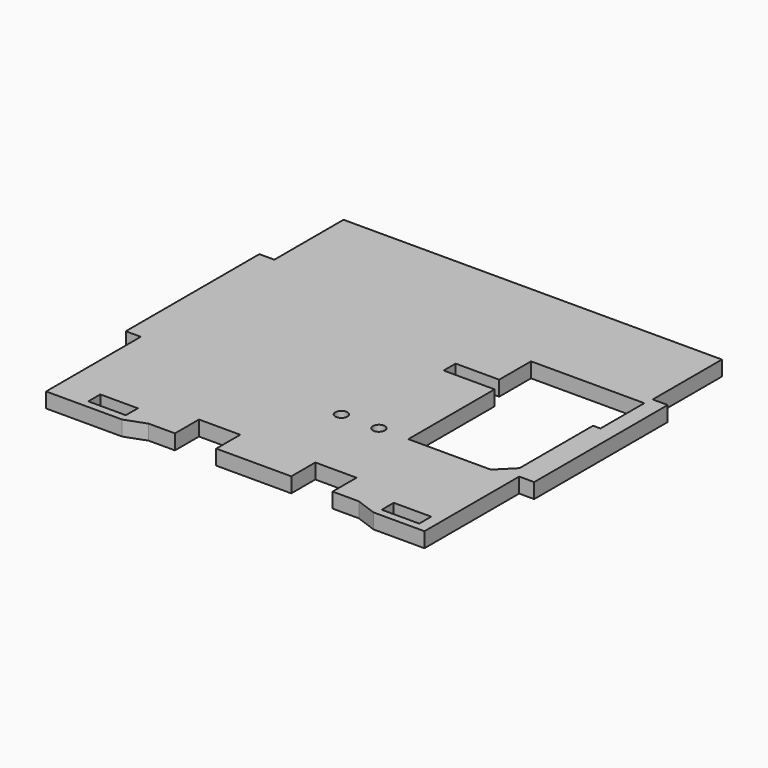
from build123d import *

# Parameters (mm, degrees)
F0_W     = 10
F0_H     = 4
F0_R     = 1.6
F1_DEPTH = 4


with BuildPart() as f1:
    # F0 (on Top) → F1 (new body)
    with BuildSketch(Plane.XY):
        Polygon((50.425, 49.55), (-50.425, 49.55), (-50.425, 26.5), (-54.425, 26.5), (-54.425, -18), (-50.425, -18), (-50.425, -49.55), (-30.17, -49.55), (-24.675371, -47.55), (-17.675371, -47.55), (-17.675371, -39.55), (-6.675371, -39.55), (-6.675371, -47.55), (13.324629, -47.55), (13.324629, -39.55), (24.324629, -39.55), (24.324629, -47.55), (31.324629, -47.55), (36.82, -49.55), (50.425, -49.55), (50.425, -18), (54.425, -18), (54.425, 26.5), (50.425, 26.5), align=None)
        with Locations((-35.775, -45.55)):
            Rectangle(F0_W, F0_H, mode=Mode.SUBTRACT)
        with Locations((42.425, -45.55)):
            Rectangle(F0_W, F0_H, mode=Mode.SUBTRACT)
        with Locations((4.03, -19.243281)):
            Circle(F0_R, mode=Mode.SUBTRACT)
        with Locations((14.03, -19.243281)):
            Circle(F0_R, mode=Mode.SUBTRACT)
        Polygon((19.898, 13.499719), (19.898, 24.1), (50.098, 24.1), (50.098, 9.5), (48.119, 9.5), (48.119, -15), (43.877, -19.243281), (21.877, -19.243281), (21.877, 9.499719), (8.298, 9.499719), (8.298, 13.499719), align=None, mode=Mode.SUBTRACT)
    extrude(amount=F1_DEPTH)


solid = f1.part
